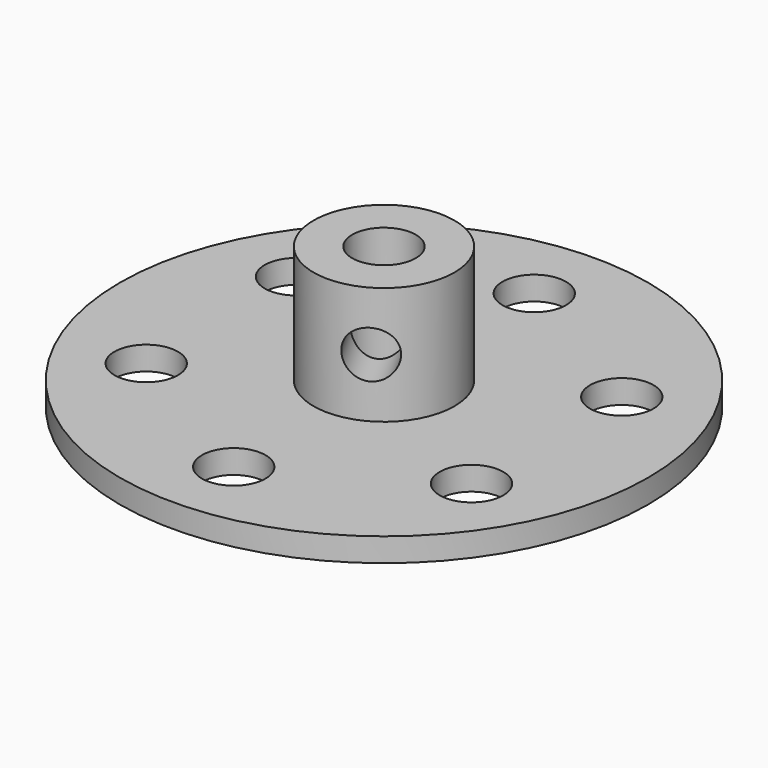
from build123d import *

# Parameters (mm, degrees)
SKETCH_R             = 17.86
PAD_DEPTH            = 1.6
SKETCH001_R          = 4.765
PAD001_DEPTH         = 7.96
SKETCH002_R          = 2.15
POCKET_DEPTH         = 9.561
SKETCH003_R          = 1.6
POCKET001_DEPTH      = 5
POCKET001_DEPTH_BACK = -5
SKETCH004_R          = 2.15
POCKET002_DEPTH      = 112.385713
POLARPATTERN_COUNT   = 6


with BuildPart() as part:
    # Sketch → Pad (new body)
    with BuildSketch(Plane.XY):
        Circle(SKETCH_R)
    extrude(amount=PAD_DEPTH)

    # Sketch001 (on Face3 of Pad) → Pad001 (join)
    with BuildSketch(Plane.XY.offset(1.6)):
        Circle(SKETCH001_R)
    extrude(amount=PAD001_DEPTH)

    # Sketch002 (on Face5 of Pad001) → Pocket (cut, through all)
    with BuildSketch(Plane.XY.offset(9.56)):
        Circle(SKETCH002_R)
    extrude(amount=-POCKET_DEPTH, mode=Mode.SUBTRACT)

    # Sketch003 (on DatumPlane) → Pocket001 (cut, two sides)
    with BuildSketch(Plane(origin=(0, 0, 0), x_dir=(0.866025, 0.5, 0), z_dir=(0.5, -0.866025, 0))) as pocket001_sk:
        with Locations((0, 5.57)):
            Circle(SKETCH003_R)
    extrude(amount=-POCKET001_DEPTH, mode=Mode.SUBTRACT)
    extrude(pocket001_sk.sketch, amount=-POCKET001_DEPTH_BACK, mode=Mode.SUBTRACT)

    # Sketch004 → Pocket002 (cut, through all)
    with BuildSketch(Plane.XY):
        with Locations((0, 12.7)):
            Circle(SKETCH004_R)
    pocket002 = extrude(amount=POCKET002_DEPTH, mode=Mode.SUBTRACT)

    # PolarPattern: Pocket002 ×6 about axis
    polarpattern_axis = Axis((0, 0, 0), (0, 0, 1))
    for i in range(1, POLARPATTERN_COUNT):
        add(pocket002.rotate(polarpattern_axis, i * 360 / POLARPATTERN_COUNT), mode=Mode.SUBTRACT)


solid = part.part
